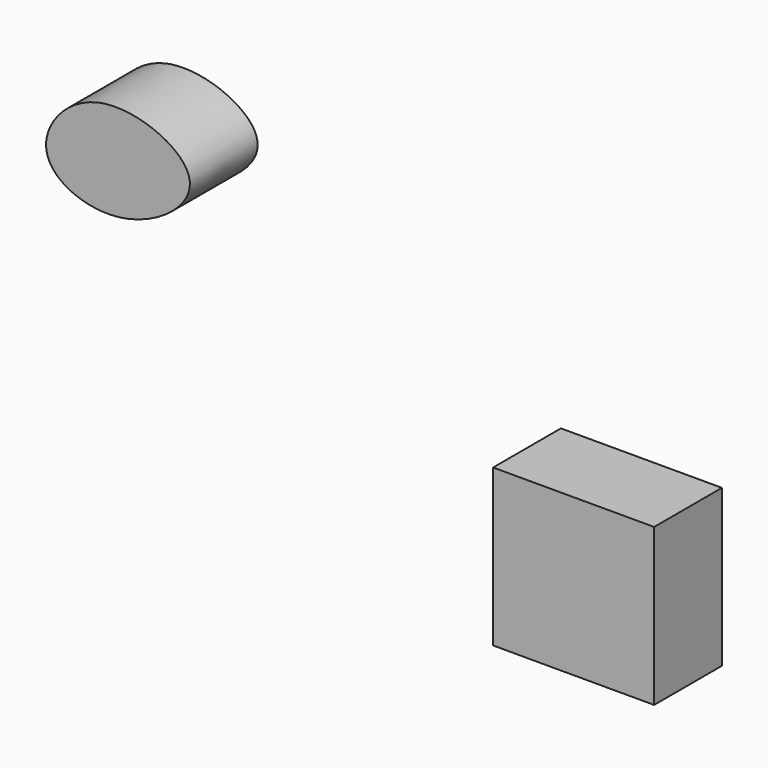
from build123d import *

# Parameters (mm, degrees)
F0_W     = 47.4986881018
F0_H     = 46.2349280715
F1_DEPTH = 25
F3_DEPTH = 25


with BuildPart() as f1:
    # F0 (on Front) → F1 (new body)
    with BuildSketch(Plane.XZ):
        with Locations((-182.2966858745, -61.9604699314)):
            Rectangle(F0_W, F0_H)
    extrude(amount=F1_DEPTH)


with BuildPart() as f3:
    # F2 (on Front) → F3 (new body)
    with BuildSketch(Plane.XZ):
        with BuildLine():
            add(Edge.make_bspline(
                [(-322.645008564, 18.0257074535), (-332.4785618301, 15.8396644121), (-346.3020783808, -2.5695494395), (-314.8767104353, -15.6610055658), (-283.2294814858, 8.4710992198), (-311.6764122248, 20.4640756661), (-322.645008564, 18.0257074535)],
                knots=[0, 0, 0, 0, 0.2392613253, 0.4829139559, 0.73312181, 1, 1, 1, 1], degree=3))
        make_face()
    extrude(amount=F3_DEPTH)


solid = Compound([f1.part, f3.part])
